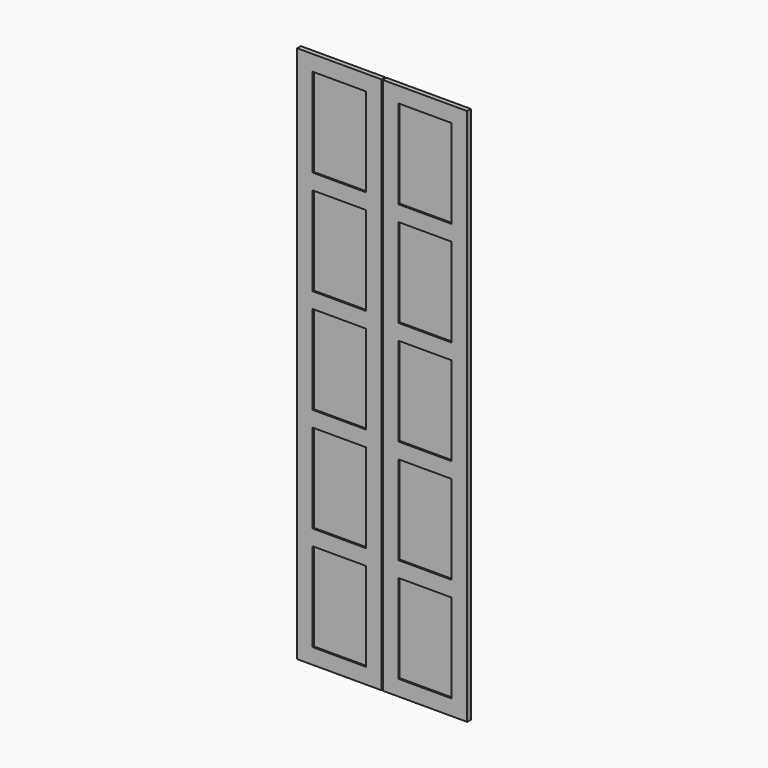
from build123d import *

# Parameters (mm, degrees)
F1_W     = 343.662
F1_H     = 2190
F2_DEPTH = 19.05
F3_W     = 216.662
F3_H     = 361.8
F4_DEPTH = 6.35


with BuildPart() as f2:
    # F1 (on Front) → F2 (new body)
    with BuildSketch(Plane.XZ):
        with Locations((-174.371, 1073.652)):
            Rectangle(F1_W, F1_H)
    extrude(amount=F2_DEPTH)

    # F3 (on face) → F4 (cut)
    with BuildSketch(Plane.XZ.offset(19.05)):
        with Locations((-174.371, 223.052)):
            Rectangle(F3_W, F3_H)
        with Locations((-174.371, 648.352)):
            Rectangle(F3_W, F3_H)
        with Locations((-174.371, 1073.652)):
            Rectangle(F3_W, F3_H)
        with Locations((-174.371, 1498.952)):
            Rectangle(F3_W, F3_H)
        with Locations((-174.371, 1924.252)):
            Rectangle(F3_W, F3_H)
    extrude(amount=-F4_DEPTH, mode=Mode.SUBTRACT)


with BuildPart() as f5_1:
    # F5: instance of F2
    add(f2.part.mirror(Plane.YZ))


solid = Compound([f2.part, f5_1.part])
